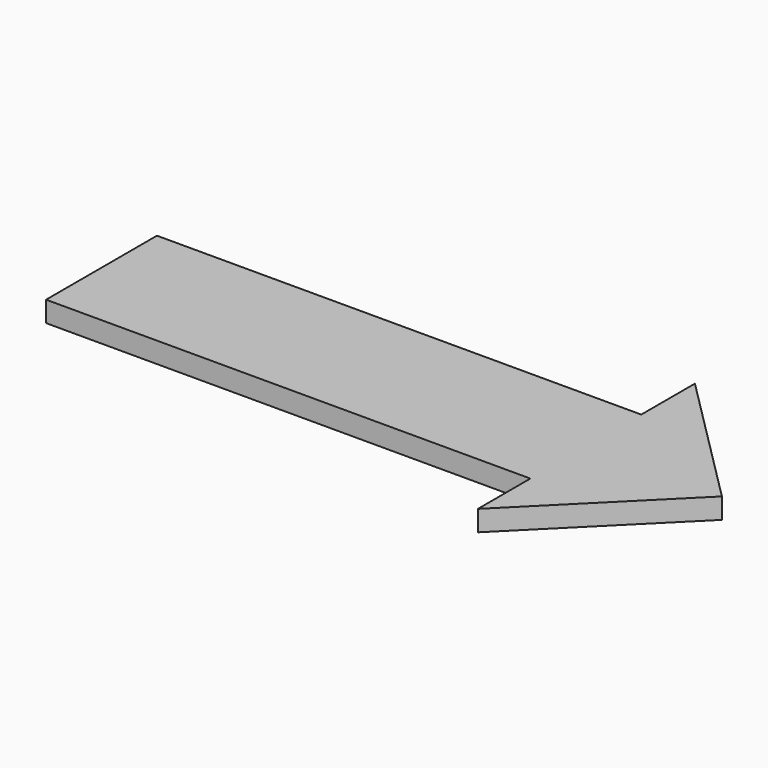
from build123d import *

# Parameters (mm, degrees)
PAD_DEPTH = 3


with BuildPart() as part:
    # Sketch → Pad (new body)
    with BuildSketch(Plane.XY):
        Polygon((-30.184326, -10.14645), (-30.184326, 9.980667), (40.154659, 9.980667), (40.154659, 19.726433), (59.858044, 0), (40.154659, -19.680351), (40.154659, -10.14645), align=None)
    extrude(amount=PAD_DEPTH)


solid = part.part
